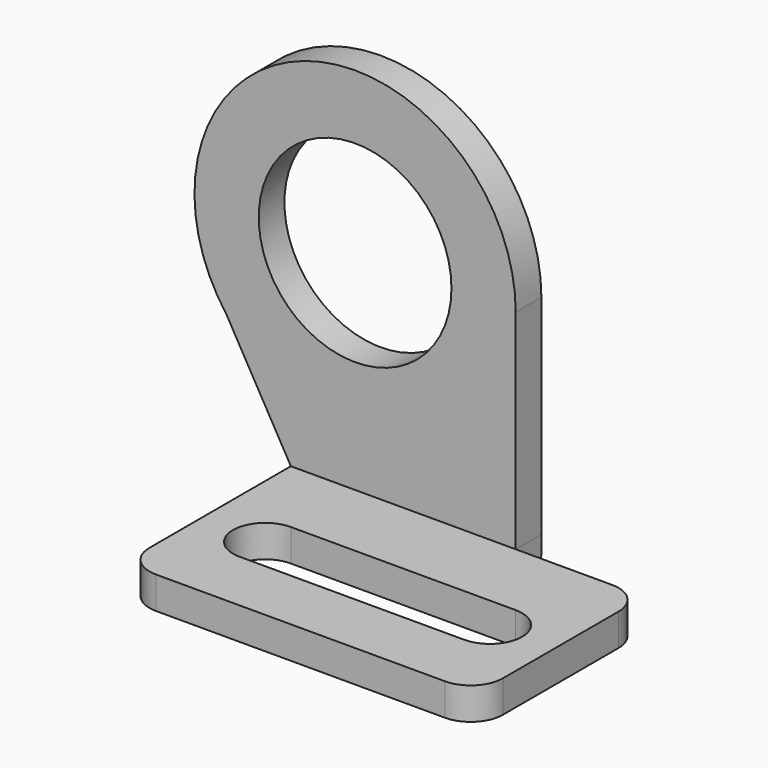
from build123d import *

# Parameters (mm, degrees)
EXTRUDE001_DEPTH                     = 1
EXTRUDE002_DEPTH                     = 15
EXTRUDE_DEPTH                        = 1
SKETCH004_AS_DRAWN_R                 = 3
EXTRUDE004_DEPTH                     = 1
EXTRUDE004_ONTO_SKETCH004_ROLL_ANGLE = 90
EXTRUDE003_DEPTH                     = 1
EXTRUDE003_ONTO_SKETCH003_ROLL_ANGLE = 90


with BuildPart() as extrude001:
    # Sketch001 → Extrude001 (new body)
    with BuildSketch(Plane.XY):
        with BuildLine():
            Line((2, -5.5), (9, -5.5))
            ThreePointArc((9, -5.5), (10, -4.5), (9, -3.5))
            Line((2, -3.5), (9, -3.5))
            ThreePointArc((2, -3.5), (1, -4.5), (2, -5.5))
        make_face()
    extrude(amount=EXTRUDE001_DEPTH)


with BuildPart() as extrude002:
    # Sketch002 → Extrude002 (new body)
    with BuildSketch(Plane.YZ):
        with BuildLine():
            ThreePointArc((-0.5, 0), (-0.146447, 0.146447), (0, 0.5))
            Line((0, 0.5), (0, 0))
            Line((-0.5, 0), (0, 0))
        make_face()
    extrude(amount=EXTRUDE002_DEPTH)


with BuildPart() as cut001:
    # Sketch → Extrude (new body)
    with BuildSketch(Plane(origin=(0, -0.5, 0), x_dir=(1, 0, 0), z_dir=(0, 0, 1))):
        with BuildLine():
            ThreePointArc((0, -6), (0.292893, -6.707107), (1, -7))
            Line((1, -7), (10, -7))
            ThreePointArc((10, -7), (10.707107, -6.707106), (11, -6))
            Line((11, -6), (11, -1.5))
            ThreePointArc((11, -1.5), (10.707107, -0.792893), (10, -0.5))
            Line((10, -0.5), (7, -0.5))
            Line((7, -0.5), (7, 0.5))
            Line((7, 0.5), (0, 0.5))
            Line((0, 0.5), (0, -6))
        make_face()
    extrude(amount=EXTRUDE_DEPTH)

    # Cut: cut Extrude002
    add(extrude002.part, mode=Mode.SUBTRACT)

    # Cut001: cut Extrude001
    add(extrude001.part, mode=Mode.SUBTRACT)


with BuildPart() as extrude004:
    # Sketch004 as drawn → Extrude004 (new)
    with BuildSketch(Plane.XY):
        with Locations((2, 8)):
            Circle(SKETCH004_AS_DRAWN_R)
    extrude(amount=-EXTRUDE004_DEPTH)


with BuildPart() as extrude004_1:
    # Extrude004 onto Sketch004 roll: moved
    add(extrude004.part.rotate(Axis((0, 0, 0), (1, 0, 0)), EXTRUDE004_ONTO_SKETCH004_ROLL_ANGLE))


with BuildPart() as extrude004_2:
    # Extrude004 onto Sketch004 placement: moved
    add(extrude004_1.part.moved(Location((0, -1, -0.5))))


with BuildPart() as cut002:
    # Sketch003 as drawn → Extrude003 (new)
    with BuildSketch(Plane.XY):
        with BuildLine():
            ThreePointArc((7, 8), (0.418861, 12.743416), (-1.999999, 5))
            Line((-1.999999, 5), (0, 1.5))
            Line((0, 1.5), (7, 1.5))
            Line((7, 8), (7, 1.5))
        make_face()
    extrude(amount=-EXTRUDE003_DEPTH)


with BuildPart() as cut002_1:
    # Extrude003 onto Sketch003 roll: moved
    add(cut002.part.rotate(Axis((0, 0, 0), (1, 0, 0)), EXTRUDE003_ONTO_SKETCH003_ROLL_ANGLE))


with BuildPart() as cut002_2:
    # Extrude003 onto Sketch003 placement: moved
    add(cut002_1.part.moved(Location((0, -1, -0.5))))

    # Cut002: cut Extrude004
    add(extrude004_2.part, mode=Mode.SUBTRACT)


solid = Compound([cut001.part, cut002_2.part])
